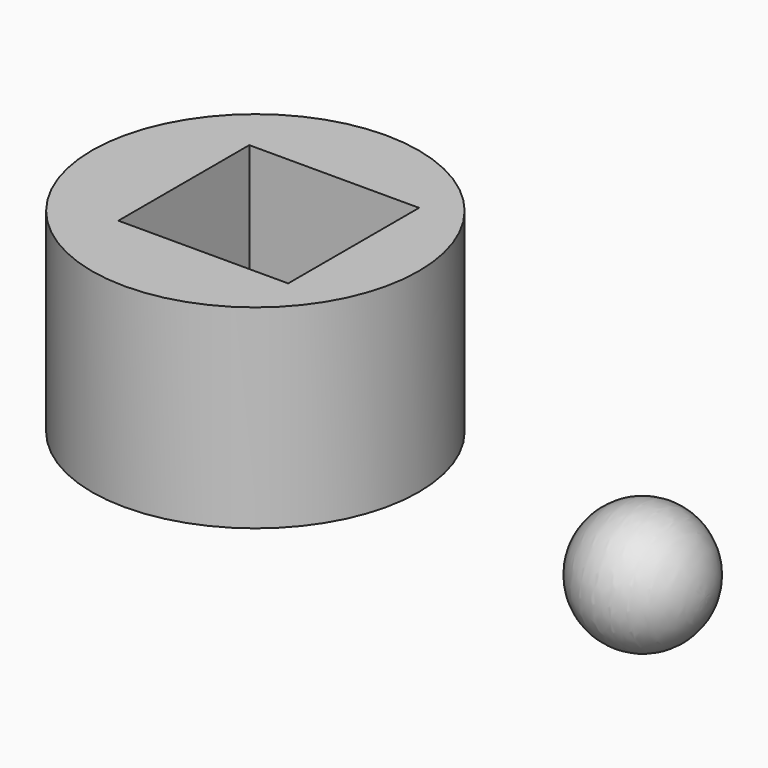
from build123d import *

# Parameters (mm, degrees)
F0_R     = 21
F1_DEPTH = 25
F2_W     = 21.82266
F2_H     = 21.029109
F3_DEPTH = 30


with BuildPart() as f1:
    # F0 (on Top) → F1 (new body)
    with BuildSketch(Plane.XY):
        Circle(F0_R)
    extrude(amount=F1_DEPTH)

    # F2 (on face) → F3 (cut)
    with BuildSketch(Plane.XY.offset(25)):
        with Locations((1.521817, 0.244465)):
            Rectangle(F2_W, F2_H)
    extrude(amount=-F3_DEPTH, mode=Mode.SUBTRACT)


with BuildPart() as f5:
    # F4 (on Top) → F5 (revolve)
    with BuildSketch(Plane.XY):
        with BuildLine():
            Line((41.778543, 0), (57.778031, 0))
            ThreePointArc((57.778031, 0), (49.778287, 7.936002), (41.778543, 0))
        make_face()
    revolve(axis=Axis((49.778287, 0, 0), (1, 0, 0)))


solid = Compound([f1.part, f5.part])
